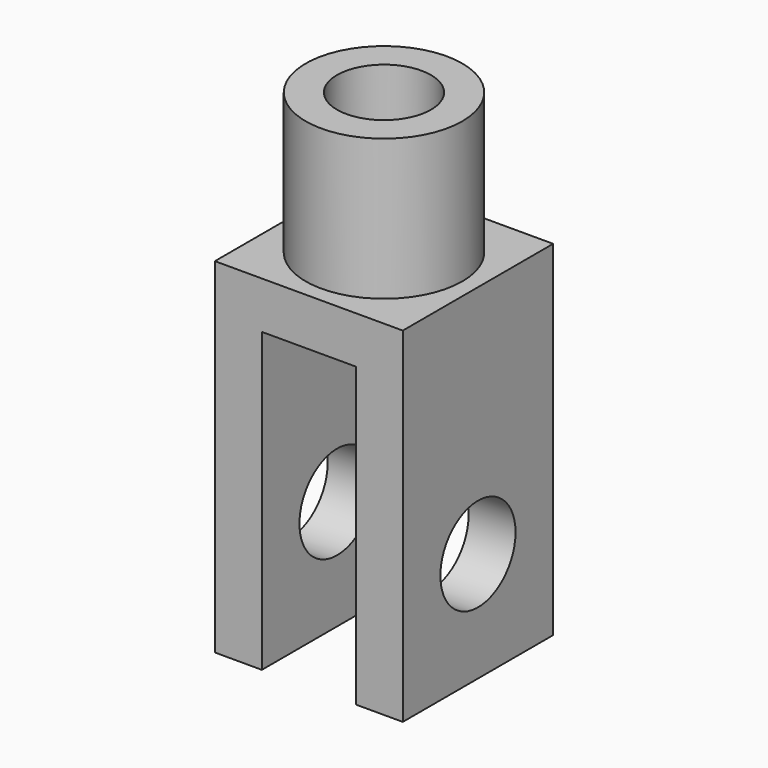
from build123d import *

# Parameters (mm, degrees)
F1_DEPTH = 12
F2_R     = 5
F3_DEPTH = 9
F5_D     = 6
F7_D     = 6


with BuildPart() as f1:
    # F0 (on Front) → F1 (new body)
    with BuildSketch(Plane.XZ):
        Polygon((3, -11), (6, -11), (6, 11), (-6, 11), (-6, -11), (-3, -11), (-3, 8), (3, 8), align=None)
    extrude(amount=F1_DEPTH)

    # F2 (on face) → F3 (join)
    with BuildSketch(Plane.XY.offset(11)):
        with Locations((0, -6)):
            Circle(F2_R)
    extrude(amount=F3_DEPTH)

    # F5 (through all)
    with Locations(Plane.XY.offset(20)):
        with Locations((0, -6)):
            Hole(F5_D / 2)

    # F7 (through all)
    with Locations(Plane(origin=(-6, 0, 0), x_dir=(0, -1, 0), z_dir=(-1, 0, 0))):
        with Locations((6, -4)):
            Hole(F7_D / 2)


solid = f1.part
